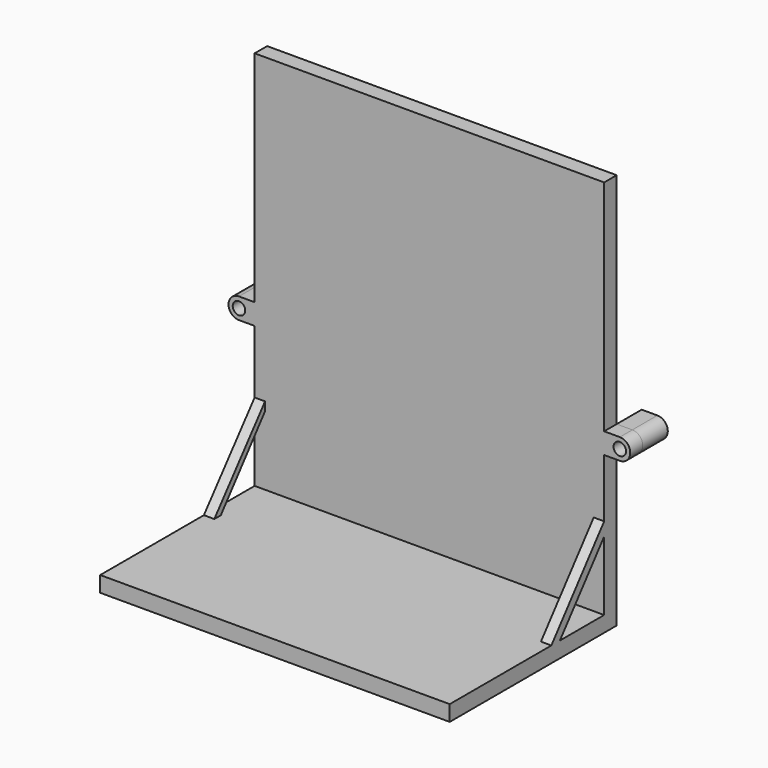
from build123d import *

# Parameters (mm, degrees)
F0_W     = 33.5
F0_H     = 21
F0_H_2   = 2
F0_H_3   = 15
F0_R     = 0.6
F3_DEPTH = 1.5
F1_W     = 33.5
F1_H     = 20
F4_DEPTH = 1.5
F5_DEPTH = 1
F8_DEPTH = 1
F9_DEPTH = 3


with BuildPart() as f3:
    # F0 (on Front) → F3 (new body)
    with BuildSketch(Plane.XZ):
        with Locations((-16.75, 27.5)):
            Rectangle(F0_W, F0_H)
        with Locations((-16.75, 16)):
            Rectangle(F0_W, F0_H_2)
        with Locations((-16.75, 7.5)):
            Rectangle(F0_W, F0_H_3)
        with BuildLine():
            Line((-35, 15), (-33.5, 15))
            Line((-33.5, 15), (-33.5, 17))
            Line((-33.5, 17), (-35, 17))
            ThreePointArc((-35, 17), (-36, 16), (-35, 15))
        make_face()
        with Locations((-35, 16)):
            Circle(F0_R, mode=Mode.SUBTRACT)
        with BuildLine():
            Line((0, 17), (0, 15))
            Line((0, 15), (1.5, 15))
            ThreePointArc((1.5, 15), (2.5, 16), (1.5, 17))
            Line((1.5, 17), (0, 17))
        make_face()
        with Locations((1.5, 16)):
            Circle(F0_R, mode=Mode.SUBTRACT)
    extrude(amount=F3_DEPTH)

    # F1 (on Top) → F4 (join)
    with BuildSketch(Plane.XY):
        with Locations((-16.75, -10)):
            Rectangle(F1_W, F1_H)
    extrude(amount=F4_DEPTH)

    # F2 (on Right) → F5 (join)
    with BuildSketch(Plane.YZ):
        Polygon((-9.024499878, 0), (-8, 0), (0, 10), (0, 11.2806248475), align=None)
    extrude(amount=-F5_DEPTH)

    # F7 (on offset) → F8 (join)
    with BuildSketch(Plane.YZ.offset(-32.5)):
        Polygon((-8.8, 0), (-8, 0), (0, 10), (0, 10.8), align=None)
    extrude(amount=-F8_DEPTH)

    # F0 (on Front) → F9 (join)
    with BuildSketch(Plane.XZ):
        with BuildLine():
            Line((-35, 15), (-33.5, 15))
            Line((-33.5, 15), (-33.5, 17))
            Line((-33.5, 17), (-35, 17))
            ThreePointArc((-35, 17), (-36, 16), (-35, 15))
        make_face()
        with Locations((-35, 16)):
            Circle(F0_R, mode=Mode.SUBTRACT)
        with BuildLine():
            Line((0, 17), (0, 15))
            Line((0, 15), (1.5, 15))
            ThreePointArc((1.5, 15), (2.5, 16), (1.5, 17))
            Line((1.5, 17), (0, 17))
        make_face()
        with Locations((1.5, 16)):
            Circle(F0_R, mode=Mode.SUBTRACT)
    extrude(amount=-F9_DEPTH)


solid = f3.part
